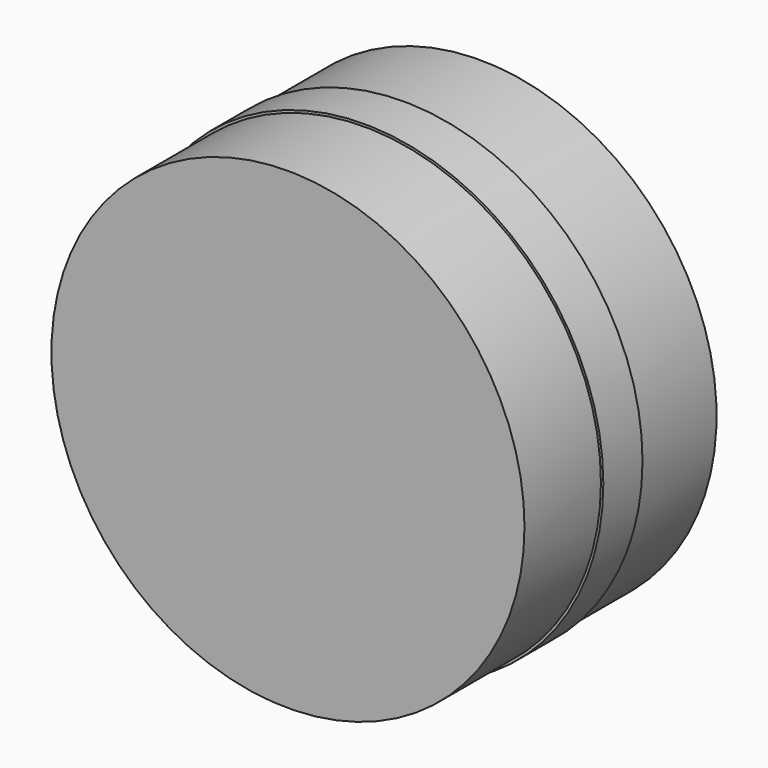
from build123d import *

# Parameters (mm, degrees)
F0_R          = 12.7
F1_DEPTH      = 1.30175
F1_DEPTH_BACK = 1.30175
F2_R          = 12.573
F3_DEPTH      = 5.08
F4_R          = 12.573
F5_DEPTH      = 5.08


with BuildPart() as f1:
    # F0 (on Front) → F1 (new body, two sides)
    with BuildSketch(Plane.XZ) as f1_sk:
        Circle(F0_R)
    extrude(amount=F1_DEPTH)
    extrude(f1_sk.sketch, amount=-F1_DEPTH_BACK)

    # F2 (on face) → F3 (join)
    with BuildSketch(Plane.XZ.offset(1.30175)):
        Circle(F2_R)
    extrude(amount=F3_DEPTH)

    # F4 (on face) → F5 (join)
    with BuildSketch(Plane(origin=(0, 1.30175, 0), x_dir=(-1, 0, 0), z_dir=(0, 1, 0))):
        Circle(F4_R)
    extrude(amount=F5_DEPTH)


solid = f1.part
